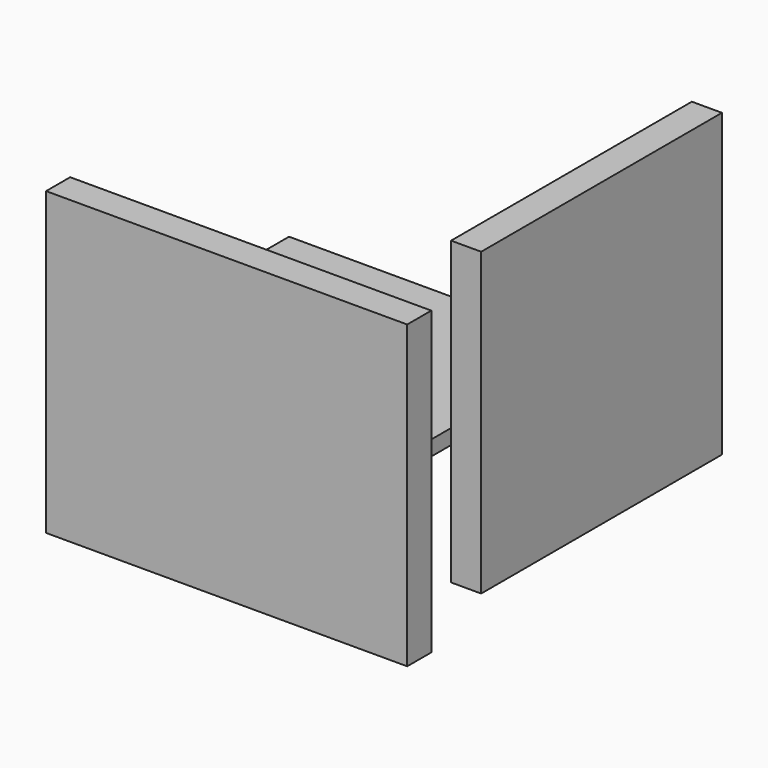
from build123d import *

# Parameters (mm, degrees)
F0_W     = 100
F0_H     = 100
F1_DEPTH = 5
F3_W     = 120
F3_H     = 10
F4_DEPTH = 100
F2_W     = 10
F2_H     = 100
F5_DEPTH = 100


with BuildPart() as f1:
    # F0 (on Top) → F1 (new body)
    with BuildSketch(Plane.XY):
        with Locations((-56.27404, 72.716347)):
            Rectangle(F0_W, F0_H)
    extrude(amount=F1_DEPTH)


with BuildPart() as f4:
    # F3 (on Top) → F4 (new body)
    with BuildSketch(Plane.XY):
        with Locations((2.498968, -34.163917)):
            Rectangle(F3_W, F3_H)
    extrude(amount=F4_DEPTH)


with BuildPart() as f5:
    # F2 (on Top) → F5 (new body)
    with BuildSketch(Plane.XY):
        with Locations((46.94775, 54.751927)):
            Rectangle(F2_W, F2_H)
    extrude(amount=F5_DEPTH)


solid = Compound([f1.part, f4.part, f5.part])
